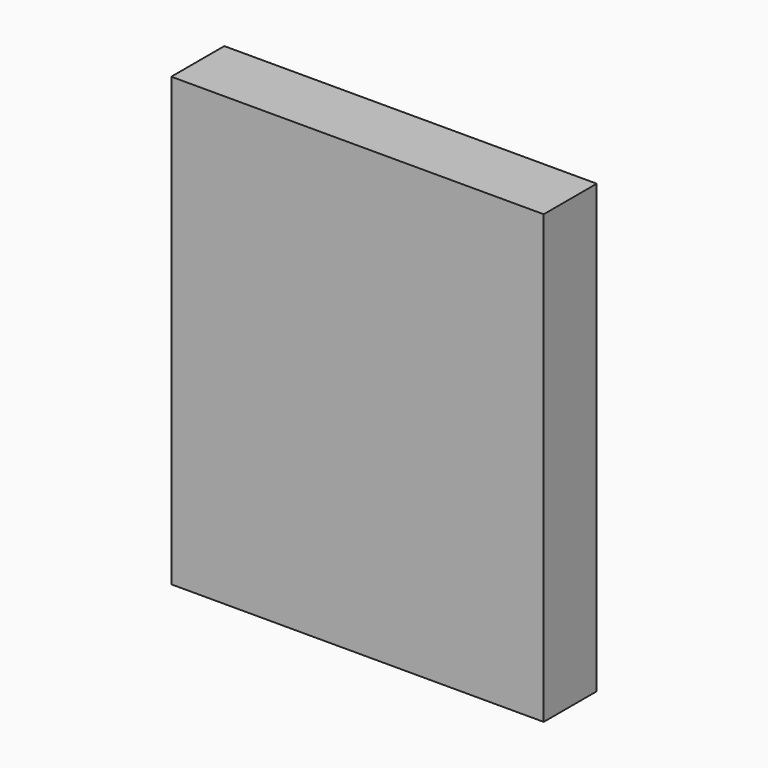
from build123d import *

# Parameters (mm, degrees)
F1_DEPTH = 15.875
F2_DEPTH = 3.175


with BuildPart() as f1:
    # F0 (on Right) → F1 (new body, symmetric)
    with BuildSketch(Plane.YZ):
        Polygon((-17.93858, 52.793688), (-23.58607, 52.793688), (-23.58607, 14.693688), (-17.93858, 14.693688), (-17.93858, 19.773688), (-17.93858, 24.166491), (-17.93858, 43.320894), (-17.93858, 47.713688), align=None)
    extrude(amount=F1_DEPTH, both=True)

    # F0 (on Right) → F2 (join, symmetric)
    with BuildSketch(Plane.YZ):
        Polygon((-10.31858, 47.713688), (-17.93858, 47.713688), (-17.93858, 43.320894), (-10.666063, 43.320894), (-8.064546, 41.310631), (-8.064546, 26.176749), (-10.666063, 24.166491), (-17.93858, 24.166491), (-17.93858, 19.773688), (-10.31858, 19.773688), (-3.704394, 25.045661), (-3.704394, 42.441716), align=None)
    extrude(amount=F2_DEPTH, both=True)


solid = f1.part
